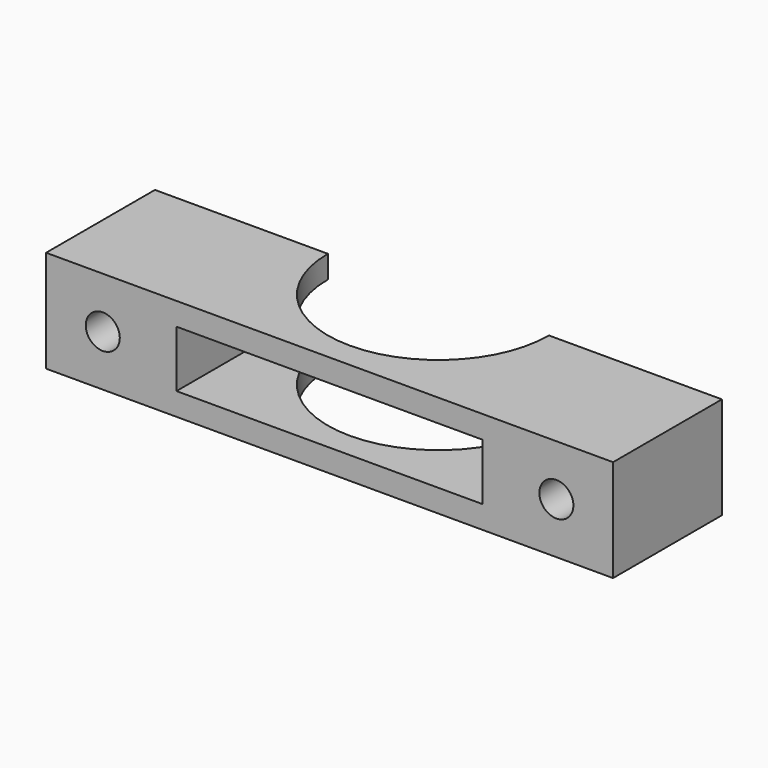
from build123d import *

# Parameters (mm, degrees)
F0_W     = 50
F0_H     = 12
F1_DEPTH = 9
F2_R     = 1.5
F3_DEPTH = 12
F4_W     = 27
F4_H     = 5
F5_DEPTH = 12.5
F7_DEPTH = 9


with BuildPart() as f1:
    # F0 (on Top) → F1 (new body)
    with BuildSketch(Plane.XY):
        with Locations((25, 6)):
            Rectangle(F0_W, F0_H)
    extrude(amount=F1_DEPTH)

    # F2 (on face) → F3 (cut)
    with BuildSketch(Plane.XZ):
        with Locations((5, 4.5)):
            Circle(F2_R)
        with Locations((45, 4.5)):
            Circle(F2_R)
    extrude(amount=-F3_DEPTH, mode=Mode.SUBTRACT)

    # F4 (on face) → F5 (cut)
    with BuildSketch(Plane(origin=(0, 12, 0), x_dir=(-1, 0, 0), z_dir=(0, 1, 0))):
        with Locations((-25, 4.5)):
            Rectangle(F4_W, F4_H)
    extrude(amount=-F5_DEPTH, mode=Mode.SUBTRACT)

    # F6 (on face) → F7 (cut)
    with BuildSketch(Plane.XY.offset(9)):
        with BuildLine():
            ThreePointArc((15.25, 12), (25, 2.25), (34.75, 12))
            Line((34.75, 12), (15.25, 12))
        make_face()
    extrude(amount=-F7_DEPTH, mode=Mode.SUBTRACT)


solid = f1.part
